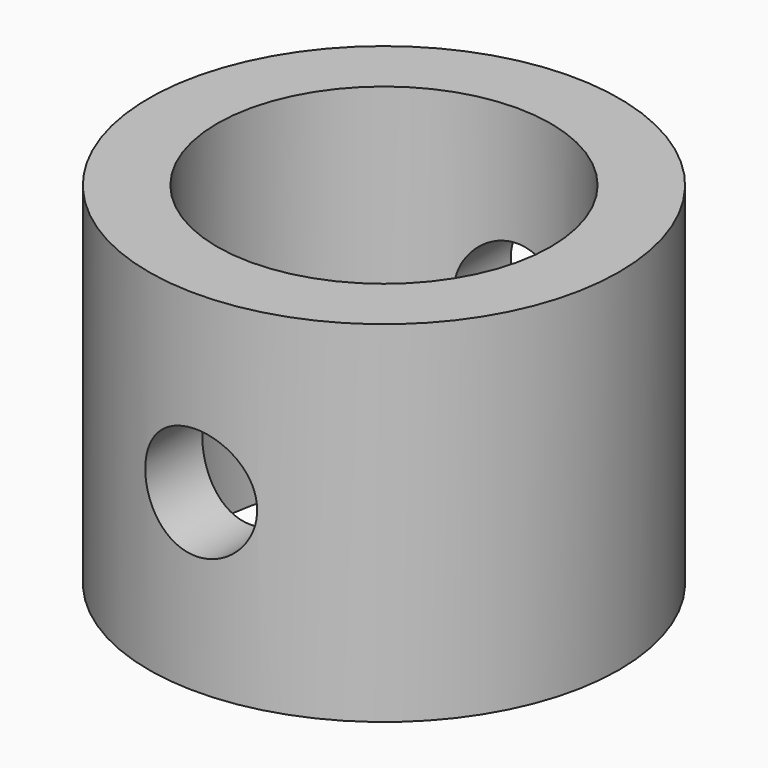
from build123d import *

# Parameters (mm, degrees)
F0_R     = 24.175
F0_R_2   = 17.15
F1_DEPTH = 18
F2_R     = 5.75
F3_DEPTH = 647.7


with BuildPart() as f1:
    # F0 (on Top) → F1 (new body, symmetric)
    with BuildSketch(Plane.XY):
        Circle(F0_R)
        Circle(F0_R_2, mode=Mode.SUBTRACT)
    extrude(amount=F1_DEPTH, both=True)

    # F2 (on Front) → F3 (cut, symmetric)
    with BuildSketch(Plane.XZ):
        Circle(F2_R)
    extrude(amount=F3_DEPTH, both=True, mode=Mode.SUBTRACT)


solid = f1.part
